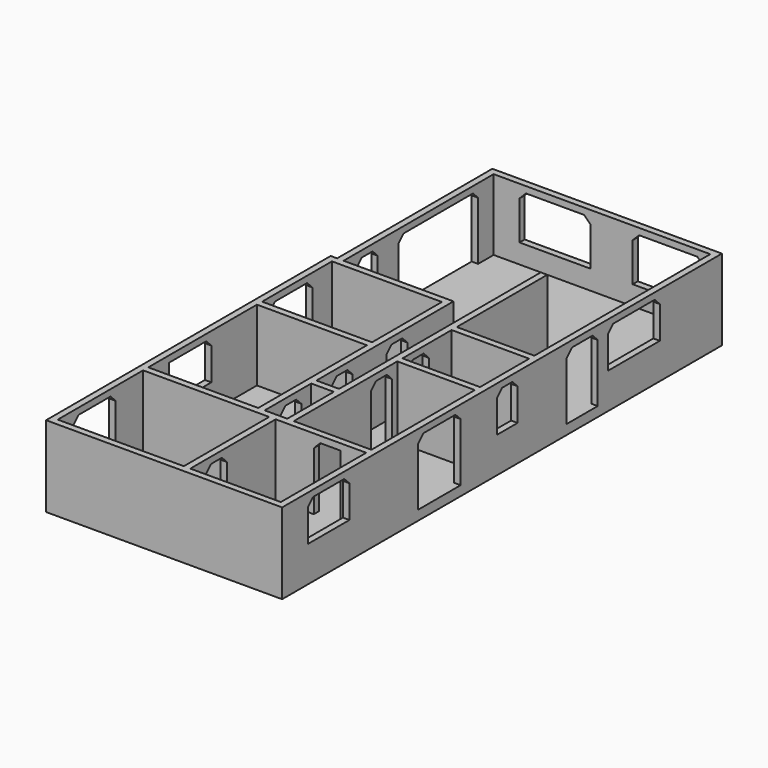
from build123d import *

# Parameters (mm, degrees)
F3_W      = 2
F3_H      = 110
F4_DEPTH  = 3
F5_W      = 2
F5_H      = 33
F5_H_2    = 40
F5_H_3    = 27
F5_H_4    = 19
F5_H_5    = 35
F5_W_2    = 7
F5_H_6    = 2
F6_DEPTH  = 22
F7_W      = 8.2
F7_H      = 20
F7_W_2    = 30.8
F8_DEPTH  = 2
F9_W      = 12
F9_H      = 20
F9_W_2    = 20
F9_H_2    = 12
F9_W_3    = 8
F9_W_4    = 16.4
F9_W_5    = 16
F10_DEPTH = 2
F11_W     = 22
F11_H     = 14
F12_DEPTH = 2
F13_W     = 8.2
F13_H     = 20
F14_DEPTH = 2
F15_W     = 8.2
F15_H     = 20
F16_DEPTH = 2
F17_W     = 8.2
F17_H     = 20
F18_DEPTH = 2
F19_W     = 8.2
F19_H     = 20
F20_DEPTH = 2
F21_W     = 16.4
F21_H     = 20
F21_H_2   = 12
F22_DEPTH = 2
F23_SIZE  = 2


with BuildPart() as f4:
    # F3 (on Top) → F4 (new body)
    with BuildSketch(Plane.XY):
        Polygon((57.8188975325, 167.2736013268), (-13.1811024675, 167.2736013268), (-13.1811024675, 107.2736013268), (-13.1811024675, -2.7263986732), (57.8188975325, -2.7263986732), align=None)
        with Locations((-14.1811024675, 52.2736013268)):
            Rectangle(F3_W, F3_H)
    extrude(amount=F4_DEPTH)

    # F5 (on face) → F6 (join)
    with BuildSketch(Plane.XY.offset(3)):
        with Locations((56.8188975325, 15.7736013268)):
            Rectangle(F5_W, F5_H)
        with Locations((56.8188975325, 54.2736013268)):
            Rectangle(F5_W, F5_H_2)
        Polygon((-13.1811024675, 167.2736013268), (-13.1811024675, 107.2736013268), (-11.1811024675, 107.2736013268), (-11.1811024675, 165.2736013268), (-11.1811024675, 167.2736013268), align=None)
        Polygon((-11.1811024675, 167.2736013268), (-11.1811024675, 165.2736013268), (55.8188975325, 165.2736013268), (57.8188975325, 165.2736013268), (57.8188975325, 167.2736013268), align=None)
        Polygon((-15.1811024675, -0.7263986732), (-15.1811024675, -2.7263986732), (57.8188975325, -2.7263986732), (57.8188975325, -0.7263986732), (55.8188975325, -0.7263986732), (27.8188975325, -0.7263986732), (25.8188975325, -0.7263986732), (-13.1811024675, -0.7263986732), align=None)
        Polygon((-11.1811024675, 107.2736013268), (-13.1811024675, 107.2736013268), (-13.1811024675, 105.2736013268), (20.8188975325, 105.2736013268), (22.8188975325, 105.2736013268), (22.8188975325, 107.2736013268), align=None)
        Polygon((55.8188975325, 76.2736013268), (57.8188975325, 76.2736013268), (57.8188975325, 165.2736013268), (55.8188975325, 165.2736013268), (55.8188975325, 97.2736013268), (55.8188975325, 95.2736013268), align=None)
        Polygon((-15.1811024675, 107.2736013268), (-15.1811024675, -0.7263986732), (-13.1811024675, -0.7263986732), (-13.1811024675, 32.2736013268), (-13.1811024675, 34.2736013268), (-13.1811024675, 76.2736013268), (-13.1811024675, 78.2736013268), (-13.1811024675, 105.2736013268), (-13.1811024675, 107.2736013268), align=None)
        Polygon((55.8188975325, 74.2736013268), (57.8188975325, 74.2736013268), (57.8188975325, 76.2736013268), (55.8188975325, 76.2736013268), (31.8188975325, 76.2736013268), (29.8188975325, 76.2736013268), (29.8188975325, 74.2736013268), (31.8188975325, 74.2736013268), align=None)
        Polygon((55.8188975325, 32.2736013268), (57.8188975325, 32.2736013268), (57.8188975325, 34.2736013268), (55.8188975325, 34.2736013268), (31.8188975325, 34.2736013268), (29.8188975325, 34.2736013268), (22.8188975325, 34.2736013268), (20.8188975325, 34.2736013268), (-13.1811024675, 34.2736013268), (-13.1811024675, 32.2736013268), (25.8188975325, 32.2736013268), (27.8188975325, 32.2736013268), align=None)
        with Locations((21.8188975325, 91.7736013268)):
            Rectangle(F5_W, F5_H_3)
        Polygon((20.8188975325, 76.2736013268), (20.8188975325, 34.2736013268), (22.8188975325, 34.2736013268), (22.8188975325, 52.2736013268), (22.8188975325, 54.2736013268), (22.8188975325, 76.2736013268), align=None)
        Polygon((-13.1811024675, 78.2736013268), (-13.1811024675, 76.2736013268), (20.8188975325, 76.2736013268), (22.8188975325, 76.2736013268), (22.8188975325, 78.2736013268), (20.8188975325, 78.2736013268), align=None)
        with Locations((30.8188975325, 85.7736013268)):
            Rectangle(F5_W, F5_H_4)
        Polygon((55.8188975325, 95.2736013268), (55.8188975325, 97.2736013268), (31.8188975325, 97.2736013268), (29.8188975325, 97.2736013268), (29.8188975325, 95.2736013268), (31.8188975325, 95.2736013268), align=None)
        with Locations((30.8188975325, 114.7736013268)):
            Rectangle(F5_W, F5_H_5)
        Polygon((29.8188975325, 34.2736013268), (31.8188975325, 34.2736013268), (31.8188975325, 74.2736013268), (29.8188975325, 74.2736013268), (29.8188975325, 54.2736013268), (29.8188975325, 52.2736013268), align=None)
        with Locations((26.3188975325, 53.2736013268)):
            Rectangle(F5_W_2, F5_H_6)
        with Locations((26.8188975325, 15.7736013268)):
            Rectangle(F5_W, F5_H)
    extrude(amount=F6_DEPTH)

    # F7 (on face) → F8 (cut)
    with BuildSketch(Plane(origin=(-13.1811024675, 0, 0), x_dir=(0, -1, 0), z_dir=(-1, 0, 0))):
        with Locations((-116.3736013268, 13)):
            Rectangle(F7_W, F7_H)
        with Locations((-143.8736013268, 13)):
            Rectangle(F7_W_2, F7_H)
    extrude(amount=-F8_DEPTH, mode=Mode.SUBTRACT)

    # F9 (on face) → F10 (cut)
    with BuildSketch(Plane(origin=(55.8188975325, 0, 0), x_dir=(0, -1, 0), z_dir=(-1, 0, 0))):
        with Locations((-113.2736013268, 13)):
            Rectangle(F9_W, F9_H)
        with Locations((-133.2736013268, 17)):
            Rectangle(F9_W_2, F9_H_2)
        with Locations((-84.2736013268, 17)):
            Rectangle(F9_W_3, F9_H_2)
        with Locations((-58.0736013268, 13)):
            Rectangle(F9_W_4, F9_H)
        with Locations((-15.2736013268, 17)):
            Rectangle(F9_W_5, F9_H_2)
    extrude(amount=-F10_DEPTH, mode=Mode.SUBTRACT)

    # F11 (on face) → F12 (cut)
    with BuildSketch(Plane.XZ.offset(-165.2736013268)):
        with Locations((42.8188975325, 16)):
            Rectangle(F11_W, F11_H)
        with Locations((7.8188975325, 16)):
            Rectangle(F11_W, F11_H)
    extrude(amount=-F12_DEPTH, mode=Mode.SUBTRACT)

    # F13 (on face) → F14 (cut)
    with BuildSketch(Plane(origin=(20.8188975325, 0, 0), x_dir=(0, -1, 0), z_dir=(-1, 0, 0))):
        with Locations((-85.3736013268, 13)):
            Rectangle(F13_W, F13_H)
        with Locations((-64.1736013268, 13)):
            Rectangle(F13_W, F13_H)
        with Locations((-44.3736013268, 13)):
            Rectangle(F13_W, F13_H)
    extrude(amount=-F14_DEPTH, mode=Mode.SUBTRACT)

    # F15 (on face) → F16 (cut)
    with BuildSketch(Plane.YZ.offset(31.8188975325)):
        with Locations((82.3736013268, 13)):
            Rectangle(F15_W, F15_H)
        with Locations((68.1736013268, 13)):
            Rectangle(F15_W, F15_H)
    extrude(amount=-F16_DEPTH, mode=Mode.SUBTRACT)

    # F17 (on face) → F18 (cut)
    with BuildSketch(Plane.XZ.offset(-32.2736013268)):
        with Locations((43.7188975325, 13)):
            Rectangle(F17_W, F17_H)
    extrude(amount=-F18_DEPTH, mode=Mode.SUBTRACT)

    # F19 (on face) → F20 (cut)
    with BuildSketch(Plane(origin=(25.8188975325, 0, 0), x_dir=(0, -1, 0), z_dir=(-1, 0, 0))):
        with Locations((-9.3736013268, 13)):
            Rectangle(F19_W, F19_H)
    extrude(amount=-F20_DEPTH, mode=Mode.SUBTRACT)

    # F21 (on face) → F22 (cut)
    with BuildSketch(Plane.YZ.offset(-13.1811024675)):
        with Locations((13.4736013268, 13)):
            Rectangle(F21_W, F21_H)
        with Locations((50.4736013268, 17)):
            Rectangle(F21_W, F21_H_2)
        with Locations((89.4736013268, 17)):
            Rectangle(F21_W, F21_H_2)
    extrude(amount=-F22_DEPTH, mode=Mode.SUBTRACT)

    # F23
    f23_edges = [f4.edges().sort_by_distance(p)[0] for p in [
        (-12.181102, 159.273601, 23),
        (-12.181102, 128.473601, 23),
        (-12.181102, 112.273601, 23),
        (-14.181102, 81.273601, 23),
        (18.818898, 166.273601, 23),
        (-14.181102, 21.673601, 23),
        (-14.181102, 58.673601, 23),
        (-14.181102, 97.673601, 23),
        (-12.181102, 120.473601, 23),
        (-14.181102, 5.273601, 23),
        (56.818898, 7.273601, 23),
        (26.818898, 5.273601, 23),
        (56.818898, 49.873601, 23),
        (56.818898, 80.273601, 23),
        (56.818898, 23.273601, 23),
        (56.818898, 66.273601, 23),
        (56.818898, 88.273601, 23),
        (39.618898, 33.273601, 23),
        (30.818898, 72.273601, 23),
        (21.818898, 68.273601, 23),
        (26.818898, 13.473601, 23),
        (31.818898, 166.273601, 23),
        (56.818898, 123.273601, 23),
        (56.818898, 107.273601, 23),
        (56.818898, 119.273601, 23),
        (56.818898, 143.273601, 23),
        (53.818898, 166.273601, 23),
        (-3.181102, 166.273601, 23),
        (30.818898, 78.273601, 23),
        (30.818898, 86.473601, 23),
        (30.818898, 64.073601, 23),
        (21.818898, 89.473601, 23),
        (21.818898, 81.273601, 23),
        (21.818898, 40.273601, 23),
        (21.818898, 48.473601, 23),
        (21.818898, 60.073601, 23),
    ]]
    chamfer(f23_edges, length=F23_SIZE)


solid = f4.part
